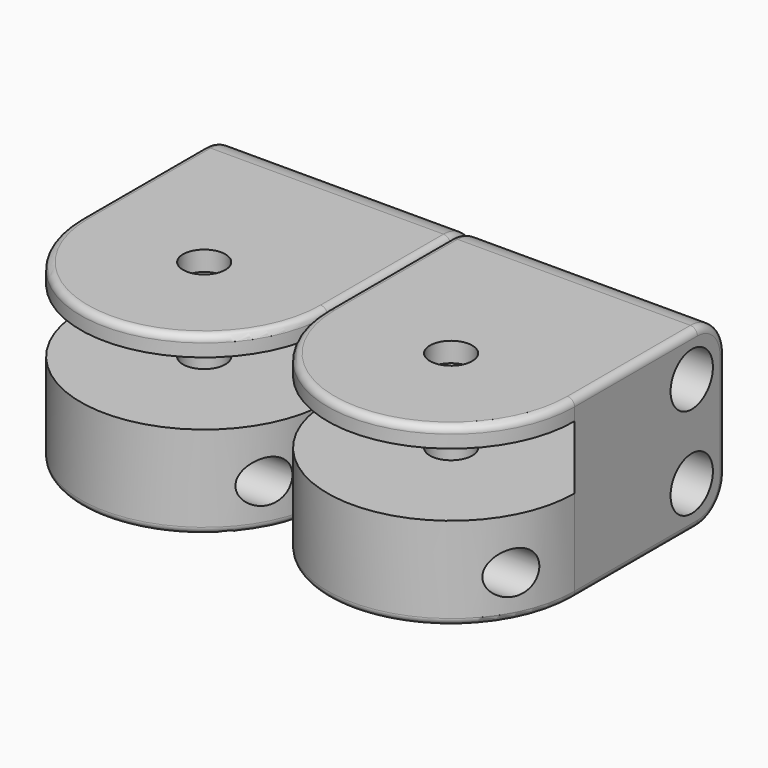
from build123d import *

# Parameters (mm, degrees)
F0_R          = 3
F0_R_2        = 3.75
F1_DEPTH      = 35
F2_DEPTH      = 25
F3_DEPTH      = 5
F5_DEPTH      = 25
F5_DEPTH_BACK = 25
F4_R          = 15
F6_DEPTH      = 1
F6_DEPTH_BACK = 8
F7_R          = 3
F8_DEPTH      = 25
F8_DEPTH_BACK = 25
F9_R          = 1


with BuildPart() as f1:
    # F0 (on Right) → F1 (new body)
    with BuildSketch(Plane.YZ):
        with BuildLine():
            Line((17.766822055, 10.7994352999), (-22.233177945, 10.7994352999))
            Line((-22.233177945, 10.7994352999), (-22.233177945, -14.2005647001))
            Line((-22.233177945, -14.2005647001), (17.766822055, -14.2005647001))
            ThreePointArc((17.766822055, -14.2005647001), (21.3023559609, -12.7360986061), (22.766822055, -9.2005647001))
            Line((22.766822055, -9.2005647001), (22.766822055, 5.7994352999))
            ThreePointArc((22.766822055, 5.7994352999), (21.3023559609, 9.3349692058), (17.766822055, 10.7994352999))
        make_face()
        with Locations((-12.233177945, -8.2005647001)):
            Circle(F0_R, mode=Mode.SUBTRACT)
        with Locations((16.766822055, -8.2005647001)):
            Circle(F0_R_2, mode=Mode.SUBTRACT)
        with Locations((16.766822055, 4.7994352999)):
            Circle(F0_R_2, mode=Mode.SUBTRACT)
    extrude(amount=F1_DEPTH)

    # F0 (on Right) → F2 (join)
    with BuildSketch(Plane.YZ):
        with Locations((16.766822055, 4.7994352999)):
            Circle(F0_R_2)
        with Locations((16.766822055, 4.7994352999)):
            Circle(F0_R, mode=Mode.SUBTRACT)
        with Locations((16.766822055, -8.2005647001)):
            Circle(F0_R_2)
        with Locations((16.766822055, -8.2005647001)):
            Circle(F0_R, mode=Mode.SUBTRACT)
    extrude(amount=F2_DEPTH)

    # F0 (on Right) → F3 (join)
    with BuildSketch(Plane.YZ):
        with Locations((16.766822055, 4.7994352999)):
            Circle(F0_R)
        with Locations((16.766822055, -8.2005647001)):
            Circle(F0_R)
    extrude(amount=F3_DEPTH)

    # F4 (on Top) → F5 (cut, two sides)
    with BuildSketch(Plane.XY) as f5_sk:
        with BuildLine():
            Line((35, -24.2075013213), (35, -4))
            ThreePointArc((35, -4), (17.5, -21.5), (0, -4))
            Line((0, -4), (0, -24.2075013213))
            Line((0, -24.2075013213), (35, -24.2075013213))
        make_face()
    extrude(amount=-F5_DEPTH, mode=Mode.SUBTRACT)
    extrude(f5_sk.sketch, amount=F5_DEPTH_BACK, mode=Mode.SUBTRACT)

    # F4 (on Top) → F6 (cut, two sides)
    with BuildSketch(Plane.XY) as f6_sk:
        with BuildLine():
            ThreePointArc((0, -4), (17.5, -21.5), (35, -4))
            ThreePointArc((35, -4), (17.5, 13.5), (0, -4))
        make_face()
        with Locations((17.5, -4)):
            Circle(F4_R, mode=Mode.SUBTRACT)
        with Locations((17.5, -4)):
            Circle(F4_R)
    extrude(amount=-F6_DEPTH, mode=Mode.SUBTRACT)
    extrude(f6_sk.sketch, amount=F6_DEPTH_BACK, mode=Mode.SUBTRACT)

    # F7 (on Top) → F8 (cut, two sides)
    with BuildSketch(Plane.XY) as f8_sk:
        with Locations((17.5, -4)):
            Circle(F7_R)
    extrude(amount=-F8_DEPTH, mode=Mode.SUBTRACT)
    extrude(f8_sk.sketch, amount=F8_DEPTH_BACK, mode=Mode.SUBTRACT)

    # F9
    f9_edges = [f1.edges().sort_by_distance(p)[0] for p in [
        (17.5, -21.5, -14.200565),
        (0, 6.883411, -14.200565),
        (35, 6.883411, -14.200565),
        (0, 21.302356, -12.736099),
        (35, 21.302356, -12.736099),
        (35, 22.766822, -1.700565),
        (35, 21.302356, 9.334969),
        (35, 6.883411, 10.799435),
        (0, 6.883411, 10.799435),
        (0, 21.302356, 9.334969),
        (0, 22.766822, -1.700565),
    ]]
    fillet(f9_edges, radius=F9_R)


with BuildPart() as f10_1:
    # F10: instance of F1
    add(f1.part.mirror(Plane.YZ))


solid = Compound([f1.part, f10_1.part])
